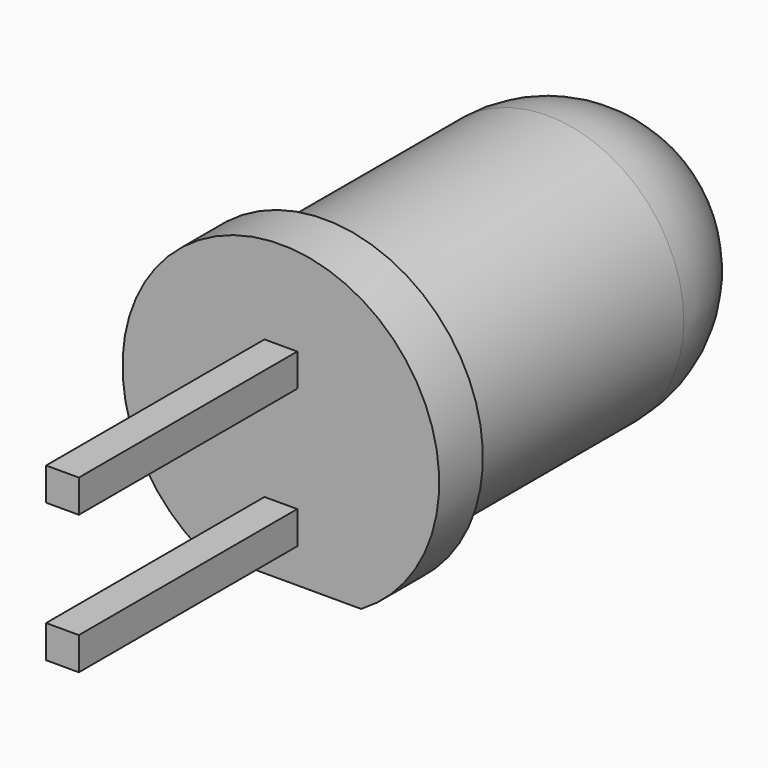
from build123d import *

# Parameters (mm, degrees)
BOX001_W             = 0.6
BOX001_H             = 0.6
BOX001_DEPTH         = 5
BOX002_W             = 0.6
BOX002_H             = 0.6
BOX002_DEPTH         = 5
CYLINDER004_R        = 2.5
CYLINDER004_DEPTH    = 6.1
BOX_W                = 10
BOX_H                = 10
BOX_DEPTH            = 10
CYLINDER005_R        = 2.9
CYLINDER005_DEPTH    = 1
FUSION002_ROLL_ANGLE = -90


with BuildPart() as led_pin1:
    # Box001 → Box001 (new body)
    with BuildSketch(Plane(origin=(-0.3, 1.27, -5), x_dir=(1, 0, 0), z_dir=(0, 0, 1))):
        with Locations((0.3, 0.3)):
            Rectangle(BOX001_W, BOX001_H)
    extrude(amount=BOX001_DEPTH)


with BuildPart() as led_pin2:
    # Box002 → Box002 (new body)
    with BuildSketch(Plane(origin=(-0.3, -1.27, -5), x_dir=(1, 0, 0), z_dir=(0, 0, 1))):
        with Locations((0.3, 0.3)):
            Rectangle(BOX002_W, BOX002_H)
    extrude(amount=BOX002_DEPTH)


with BuildPart() as led_cyl:
    # Cylinder004 → Cylinder004 (new body)
    with BuildSketch(Plane.XY):
        Circle(CYLINDER004_R)
    extrude(amount=CYLINDER004_DEPTH)


with BuildPart() as led_key_cut:
    # Box → Box (new body)
    with BuildSketch(Plane(origin=(-5, 2.5, 0), x_dir=(1, 0, 0), z_dir=(0, 0, 1))):
        with Locations((5, 5)):
            Rectangle(BOX_W, BOX_H)
    extrude(amount=BOX_DEPTH)


with BuildPart() as cut001:
    # Cylinder005 → Cylinder005 (new body)
    with BuildSketch(Plane.XY):
        Circle(CYLINDER005_R)
    extrude(amount=CYLINDER005_DEPTH)

    # Cut001: cut led-key-cut
    add(led_key_cut.part, mode=Mode.SUBTRACT)


with BuildPart() as led5mm:
    # Sphere → Sphere (revolve)
    with BuildSketch(Plane(origin=(0, 0, 6.1), x_dir=(1, 0, 0), z_dir=(0, -1, 0))):
        with BuildLine():
            ThreePointArc((0, -2.5), (2.5, 0), (0, 2.5))
            Line((0, 2.5), (0, -2.5))
        make_face()
    revolve(axis=Axis((0, 0, 6.1), (0, 0, 1)))

    # Fusion001: union led-cyl, Cut001
    add(led_cyl.part)
    add(cut001.part)

    # Fusion002: union led-pin1, led-pin2
    add(led_pin1.part)
    add(led_pin2.part)


with BuildPart() as led5mm_1:
    # Fusion002 roll: moved
    add(led5mm.part.rotate(Axis((0, 0, 0), (1, 0, 0)), FUSION002_ROLL_ANGLE))


with BuildPart() as led5mm_2:
    # Fusion002 placement: moved
    add(led5mm_1.part.moved(Location((33.37, 6.8, 6.38))))


solid = led5mm_2.part
